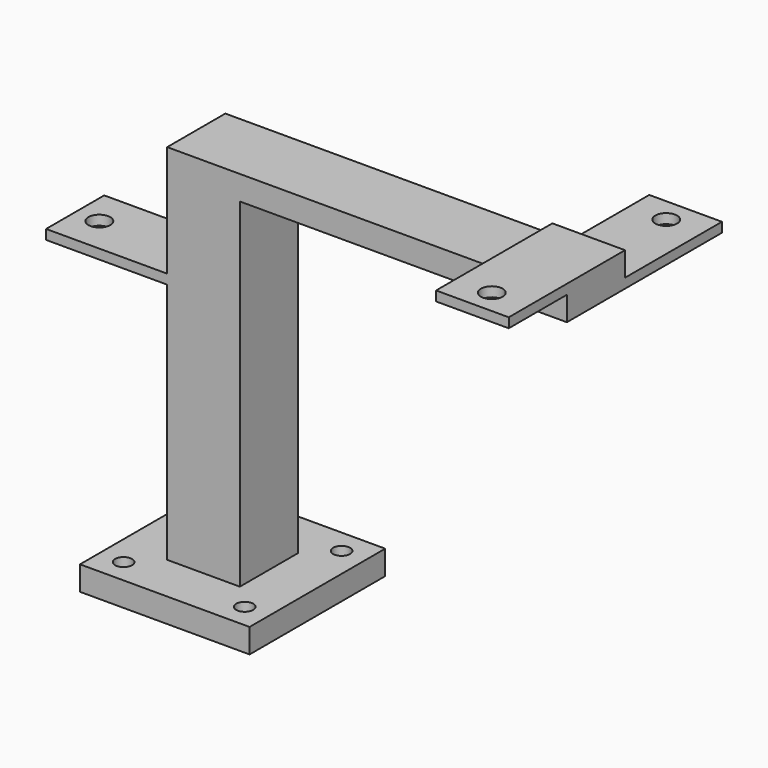
from build123d import *

# Parameters (mm, degrees)
SKETCH_W     = 35
SKETCH_H     = 35
SKETCH_R     = 1.75
PAD_DEPTH    = 5
SKETCH001_W  = 15
SKETCH001_H  = 15
PAD001_DEPTH = 50
SKETCH002_W  = 40
SKETCH002_H  = 15
SKETCH002_R  = 2.25
PAD002_DEPTH = 2
SKETCH003_W  = 15
SKETCH003_H  = 15
PAD003_DEPTH = 10
SKETCH004_W  = 15
SKETCH004_H  = 30
SKETCH004_R  = 2.25
PAD004_DEPTH = 2
SKETCH005_W  = 15
SKETCH005_H  = 15
PAD005_DEPTH = 6
SKETCH006_R  = 2.25
PAD006_DEPTH = 5
SKETCH007_W  = 15
SKETCH007_H  = 30
SKETCH007_R  = 2.25
PAD007_DEPTH = 2
SKETCH008_W  = 25
SKETCH008_H  = 3
POCKET_DEPTH = 25


with BuildPart() as part:
    # Sketch → Pad (new body)
    with BuildSketch(Plane.XY):
        with Locations((17.5, 17.5)):
            Rectangle(SKETCH_W, SKETCH_H)
        with Locations((5, 5)):
            Circle(SKETCH_R, mode=Mode.SUBTRACT)
        with Locations((5, 30)):
            Circle(SKETCH_R, mode=Mode.SUBTRACT)
        with Locations((30, 30)):
            Circle(SKETCH_R, mode=Mode.SUBTRACT)
        with Locations((30, 5)):
            Circle(SKETCH_R, mode=Mode.SUBTRACT)
    extrude(amount=PAD_DEPTH)

    # Sketch001 (on Face10 of Pad) → Pad001 (join)
    with BuildSketch(Plane.XY.offset(5)):
        with Locations((17.5, 17.5)):
            Rectangle(SKETCH001_W, SKETCH001_H)
    extrude(amount=PAD001_DEPTH)

    # Sketch002 (on Face15 of Pad001) → Pad002 (join)
    with BuildSketch(Plane.XY.offset(55)):
        with Locations((5, 17.5)):
            Rectangle(SKETCH002_W, SKETCH002_H)
        with Locations((-10, 17.5)):
            Circle(SKETCH002_R, mode=Mode.SUBTRACT)
    extrude(amount=PAD002_DEPTH)

    # Sketch003 (on Face21 of Pad002) → Pad003 (join)
    with BuildSketch(Plane.XY.offset(57)):
        with Locations((17.5, 17.5)):
            Rectangle(SKETCH003_W, SKETCH003_H)
    extrude(amount=PAD003_DEPTH)

    # Sketch004 (on Face26 of Pad003) → Pad004 (join)
    with BuildSketch(Plane.XY.offset(67)):
        with Locations((17.5, 25)):
            Rectangle(SKETCH004_W, SKETCH004_H)
        with Locations((17.5, 35)):
            Circle(SKETCH004_R, mode=Mode.SUBTRACT)
    extrude(amount=PAD004_DEPTH)

    # Sketch005 (on Face30 of Pad004) → Pad005 (join)
    with BuildSketch(Plane.XY.offset(69)):
        with Locations((17.5, 17.5)):
            Rectangle(SKETCH005_W, SKETCH005_H)
    extrude(amount=PAD005_DEPTH)

    # Sketch006 (on Face36 of Pad005) → Pad006 (join)
    with BuildSketch(Plane.XY.offset(75)):
        Polygon((10, 25), (77.5, 25), (77.5, 50), (92.5, 50), (92.5, 10), (10, 10), align=None)
        with Locations((85, 45)):
            Circle(SKETCH006_R, mode=Mode.SUBTRACT)
    extrude(amount=PAD006_DEPTH)

    # Sketch007 (on Face41 of Pad006) → Pad007 (join)
    with BuildSketch(Plane.XY.offset(80)):
        with Locations((85, 10)):
            Rectangle(SKETCH007_W, SKETCH007_H)
        with Locations((85, 0)):
            Circle(SKETCH007_R, mode=Mode.SUBTRACT)
    extrude(amount=PAD007_DEPTH)

    # Sketch008 (on Face40 of Pad007) → Pocket (cut)
    with BuildSketch(Plane.YZ.offset(92.5)):
        with Locations((37.5, 78.5)):
            Rectangle(SKETCH008_W, SKETCH008_H)
    extrude(amount=-POCKET_DEPTH, mode=Mode.SUBTRACT)


solid = part.part
